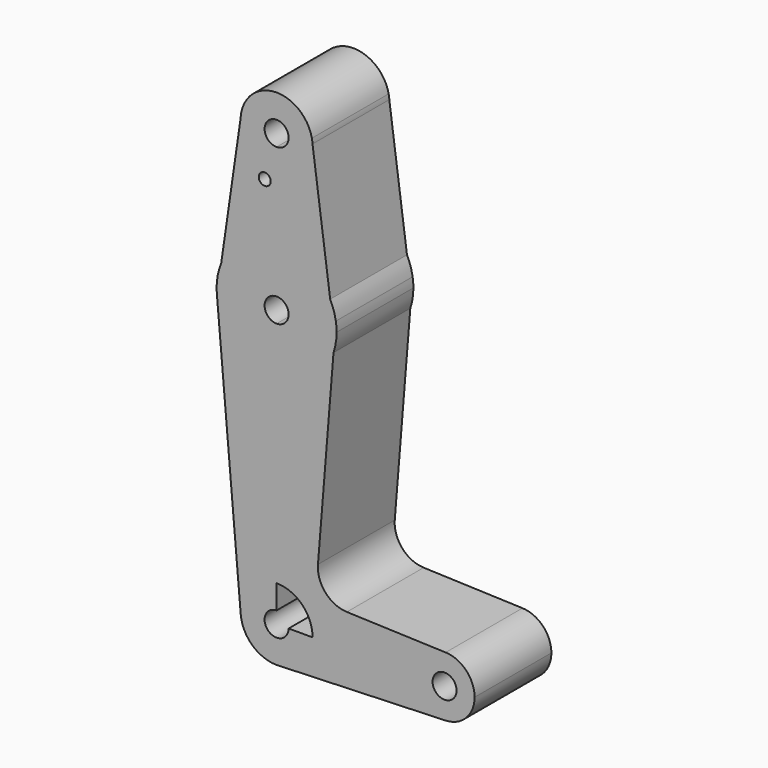
from build123d import *

# Parameters (mm, degrees)
F0_R     = 1.5875
F1_DEPTH = 25.4


with BuildPart() as f1:
    # F0 (on Front) → F1 (new body)
    with BuildSketch(Plane.XZ):
        with BuildLine():
            ThreePointArc((-9.5094866579, 50.5903833076), (-6.9246499305, 43.5067304203), (0, 40.5219787596))
            ThreePointArc((0, 40.5219787596), (6.7351920908, 43.3117866688), (9.525, 50.0469787596))
            ThreePointArc((9.525, 50.0469787596), (9.5198645536, 50.3597148789), (9.5044637522, 50.672113772))
            Line((9.5044637522, 50.672113772), (9.3301950385, 51.9635083166))
            ThreePointArc((9.3301950385, 51.9635083166), (0.1322397856, 59.5710607436), (-9.2733873238, 52.22181497))
            Line((-9.2733873238, 52.22181497), (-9.5094866579, 50.5903833076))
        make_face()
        with BuildLine():
            ThreePointArc((3.175, 50.0469787596), (2.2450640303, 47.8019147293), (0, 46.8719787596))
            ThreePointArc((0, 46.8719787596), (-2.2450640303, 52.2920427898), (3.175, 50.0469787596))
        make_face(mode=Mode.SUBTRACT)
        with BuildLine():
            ThreePointArc((9.525, 50.0469787596), (6.7351920908, 43.3117866688), (0, 40.5219787596))
            Line((0, 40.5219787596), (0, 24.7655736196))
            ThreePointArc((0, 24.7655736196), (8.3273397145, 22.4061586339), (14.1793849266, 16.0292477335))
            Line((14.1793849266, 16.0292477335), (9.5044637522, 50.672113772))
            ThreePointArc((9.5044637522, 50.672113772), (9.5198645536, 50.3597148789), (9.525, 50.0469787596))
        make_face()
        with BuildLine():
            Line((0, 24.7655736196), (0, 40.5219787596))
            ThreePointArc((0, 40.5219787596), (-6.9246499305, 43.5067304203), (-9.5094866579, 50.5903833076))
            Line((-9.5094866579, 50.5903833076), (-14.6642448634, 14.9713258418))
            ThreePointArc((-14.6642448634, 14.9713258418), (-8.8171334195, 22.0918532267), (0, 24.7655736196))
        make_face()
        with Locations((-3.1376474071, 38.3648648858)):
            Circle(F0_R, mode=Mode.SUBTRACT)
        with BuildLine():
            ThreePointArc((14.1793849266, 16.0292477335), (8.3273397145, 22.4061586339), (0, 24.7655736196))
            Line((0, 24.7655736196), (0, 12.0655736196))
            ThreePointArc((0, 12.0655736196), (2.2450640303, 11.1356376499), (3.175, 8.8905736196))
            ThreePointArc((3.175, 8.8905736196), (2.2450640303, 6.6455095894), (0, 5.7155736196))
            Line((0, 5.7155736196), (0, -6.9844263804))
            ThreePointArc((0, -6.9844263804), (9.2810934045, -3.9887481877), (15.0594253456, 3.8676926474))
            Line((15.0594253456, 3.8676926474), (15.6727348487, 11.4166392094))
            ThreePointArc((15.6727348487, 11.4166392094), (15.1031885083, 13.7802895502), (14.1793849266, 16.0292477335))
        make_face()
        with BuildLine():
            Line((0, 12.0655736196), (0, 24.7655736196))
            ThreePointArc((0, 24.7655736196), (-8.8171334195, 22.0918532267), (-14.6642448634, 14.9713258418))
            ThreePointArc((-14.6642448634, 14.9713258418), (-15.7293365162, 11.0361732466), (-15.7571148939, 6.9595233305))
            ThreePointArc((-15.7571148939, 6.9595233305), (-10.520461056, -2.9978881888), (0, -6.9844263804))
            Line((0, -6.9844263804), (0, 5.7155736196))
            ThreePointArc((0, 5.7155736196), (-3.175, 8.8905736196), (0, 12.0655736196))
        make_face()
        with BuildLine():
            ThreePointArc((-9.2733873238, 52.22181497), (-9.4267959069, 51.4112162495), (-9.5094866579, 50.5903833076))
            Line((-9.5094866579, 50.5903833076), (-9.2733873238, 52.22181497))
        make_face()
        with BuildLine():
            Line((9.3301950385, 51.9635083166), (9.5044637522, 50.672113772))
            ThreePointArc((9.5044637522, 50.672113772), (9.4394394912, 51.3207947165), (9.3301950385, 51.9635083166))
        make_face()
        with BuildLine():
            ThreePointArc((15.875, 8.8905736196), (15.8243529208, 10.1576488497), (15.6727348487, 11.4166392094))
            Line((15.6727348487, 11.4166392094), (15.0594253456, 3.8676926474))
            ThreePointArc((15.0594253456, 3.8676926474), (15.6697798702, 6.3462419157), (15.875, 8.8905736196))
        make_face()
        with BuildLine():
            ThreePointArc((0, -6.9844263804), (-10.520461056, -2.9978881888), (-15.7571148939, 6.9595233305))
            Line((-15.7571148939, 6.9595233305), (-9.4891486608, -65.0786620183))
            ThreePointArc((-9.4891486608, -65.0786620183), (-7.0210345893, -57.8163529799), (0, -54.7280212404))
            Line((0, -54.7280212404), (0, -6.9844263804))
        make_face()
        with BuildLine():
            ThreePointArc((15.0594253456, 3.8676926474), (9.2810934045, -3.9887481877), (0, -6.9844263804))
            Line((0, -6.9844263804), (0, -54.7280212404))
            ThreePointArc((0, -54.7280212404), (6.7351920908, -57.5178291496), (9.525, -64.2530212404))
            Line((9.525, -64.2530212404), (36.5125, -64.2530212404))
            ThreePointArc((36.5125, -64.2530212404), (38.9380895153, -58.5413884565), (44.7324052746, -56.3205466258))
            Line((44.7324052746, -56.3205466258), (18.5841382124, -55.3896380636))
            ThreePointArc((18.5841382124, -55.3896380636), (12.9272113527, -52.7288490574), (10.9429043963, -46.8006836132))
            Line((10.9429043963, -46.8006836132), (15.0594253456, 3.8676926474))
        make_face()
        with BuildLine():
            ThreePointArc((0, -54.7280212404), (-7.0210345893, -57.8163529799), (-9.4891486608, -65.0786620183))
            ThreePointArc((-9.4891486608, -65.0786620183), (-6.4366682605, -71.2740558298), (0, -73.7780212404))
            Line((0, -73.7780212404), (0.6773435479, -73.7539070264))
            ThreePointArc((0.6773435479, -73.7539070264), (6.9705567315, -70.7443203287), (9.525, -64.2530212404))
            Line((9.525, -64.2530212404), (3.175, -64.2530212404))
            ThreePointArc((3.175, -64.2530212404), (-2.2450640303, -66.4980852707), (0, -61.0780212404))
            Line((0, -61.0780212404), (0, -54.7280212404))
        make_face()
        with BuildLine():
            Line((0.6773435479, -73.7539070264), (0, -73.7780212404))
            ThreePointArc((0, -73.7780212404), (0.3388863295, -73.7719907779), (0.6773435479, -73.7539070264))
        make_face()
        with BuildLine():
            Line((36.5125, -64.2530212404), (9.525, -64.2530212404))
            ThreePointArc((9.525, -64.2530212404), (6.9705567315, -70.7443203287), (0.6773435479, -73.7539070264))
            Line((0.6773435479, -73.7539070264), (44.7324052746, -72.185495855))
            ThreePointArc((44.7324052746, -72.185495855), (38.9380895153, -69.9646540243), (36.5125, -64.2530212404))
        make_face()
        with BuildLine():
            ThreePointArc((44.7324052746, -56.3205466258), (38.9380895153, -58.5413884565), (36.5125, -64.2530212404))
            ThreePointArc((36.5125, -64.2530212404), (38.9380895153, -69.9646540243), (44.7324052746, -72.185495855))
            ThreePointArc((44.7324052746, -72.185495855), (50.1616327839, -69.7649317251), (52.3875, -64.2530212404))
            ThreePointArc((52.3875, -64.2530212404), (50.1616327839, -58.7411107557), (44.7324052746, -56.3205466258))
        make_face()
        with BuildLine():
            ThreePointArc((47.625, -64.2530212404), (44.45, -67.4280212404), (41.275, -64.2530212404))
            ThreePointArc((41.275, -64.2530212404), (44.45, -61.0780212404), (47.625, -64.2530212404))
        make_face(mode=Mode.SUBTRACT)
    extrude(amount=F1_DEPTH)


solid = f1.part
